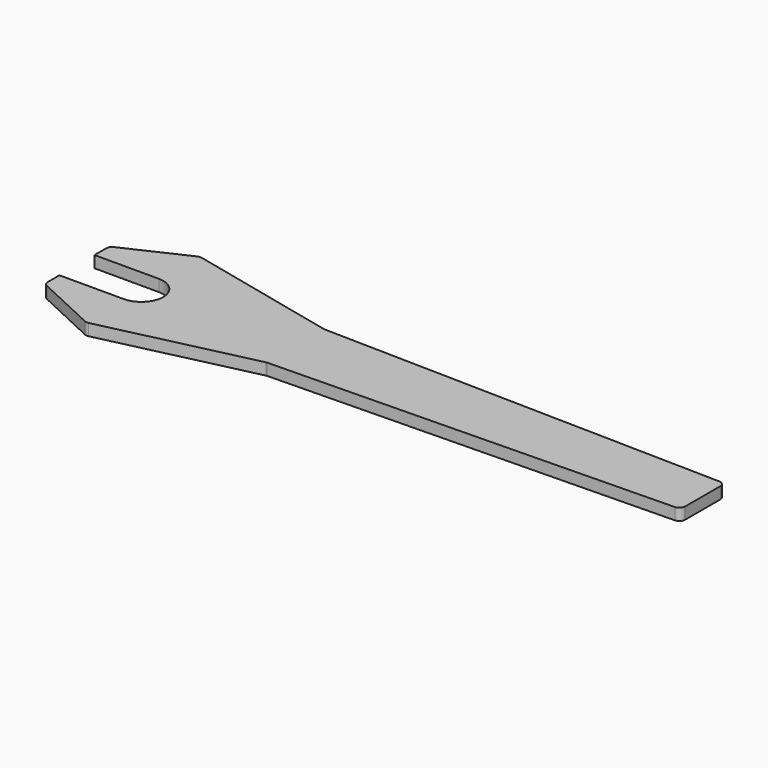
from build123d import *

# Parameters (mm, degrees)
F1_DEPTH = 4


with BuildPart() as f1:
    # F0 (on Top) → F1 (new body)
    with BuildSketch(Plane.XY):
        with BuildLine():
            Line((-55.200509, 8.383177), (-55.200509, 3.383177))
            Line((-55.200509, 3.383177), (-33.200509, 3.383177))
            ThreePointArc((-33.200509, 3.383177), (-25.700509, -4.116823), (-33.200509, -11.616823))
            Line((-33.200509, -11.616823), (-55.200509, -11.616823))
            Line((-55.200509, -11.616823), (-55.200509, -16.616823))
            ThreePointArc((-55.200509, -16.616823), (-54.887292, -17.691422), (-54.045746, -18.429438))
            Line((-54.045746, -18.429438), (-33.200667, -28.149658))
            ThreePointArc((-33.200667, -28.149658), (-32.564487, -28.326086), (-31.905528, -28.285783))
            Line((-31.905528, -28.285783), (19.279472, -16.468794))
            ThreePointArc((19.279472, -16.468794), (19.482687, -16.432806), (19.688529, -16.417952))
            Line((19.688529, -16.417952), (156.840335, -13.616405))
            ThreePointArc((156.840335, -13.616405), (158.228072, -13.016521), (158.799491, -11.616823))
            Line((158.799491, -11.616823), (158.799491, 3.383177))
            ThreePointArc((158.799491, 3.383177), (158.228072, 4.782876), (156.840335, 5.38276))
            Line((156.840335, 5.38276), (19.688529, 8.184307))
            ThreePointArc((19.688529, 8.184307), (19.482687, 8.199161), (19.279472, 8.235149))
            Line((19.279472, 8.235149), (-31.905528, 20.052138))
            ThreePointArc((-31.905528, 20.052138), (-32.564487, 20.092441), (-33.200667, 19.916013))
            Line((-33.200667, 19.916013), (-54.045746, 10.195793))
            ThreePointArc((-54.045746, 10.195793), (-54.887292, 9.457777), (-55.200509, 8.383177))
        make_face()
    extrude(amount=F1_DEPTH)


solid = f1.part
